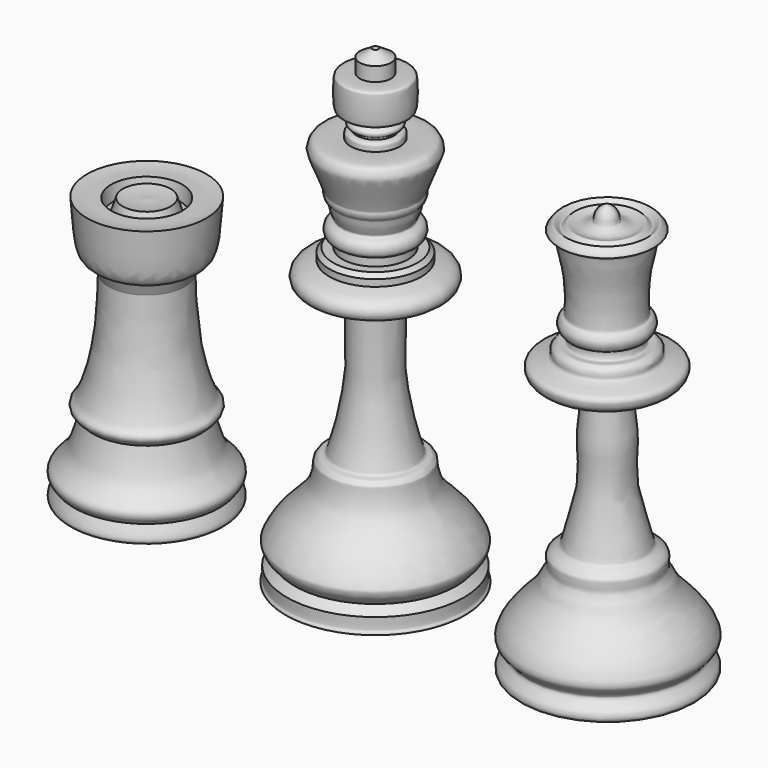
from build123d import *


with BuildPart() as f1:
    # F0 (on Front) → F1 (revolve)
    with BuildSketch(Plane.XZ):
        with BuildLine():
            Line((0, 55.5540435016), (0, 0.2665770007))
            add(Edge.make_bspline(
                [(0, 0.2665770007), (0.2965209904, 0.2574963791), (1.1301286118, 0.2319680837), (4.6987128656, 0.3512958273), (7.7142450165, 0.4243552396), (10.2439865204, 1.354328125), (10.352853608, 1.514737577), (10.2786739454, 1.7260388707), (10.1283499087, 1.8215543834), (10.1594801059, 2.6158783131), (10.1831210777, 3.2191057689)],
                knots=[0, 0, 0, 0, 0.1189755692, 0.3344752797, 0.5504141513, 0.7287636396, 0.7700754913, 0.8201708187, 0.8634336755, 1, 1, 1, 1], degree=3))
            Line((10.1831210777, 3.2191057689), (9.2929117382, 4.0796417743))
            add(Edge.make_bspline(
                [(9.2929117382, 4.0796417743), (9.5895576935, 4.3930683636), (10.1053916315, 4.9380819359), (10.3165303096, 5.6450260493), (10.278743784, 6.1055410358), (9.1351732574, 7.9898221184), (7.6853299882, 9.4004291398), (6.4586896575, 10.6529896216), (5.8799101912, 11.803977507), (5.5671343972, 13.2983974051), (5.6257468289, 13.8999766608), (5.4657622721, 14.1101552214), (5.1587870691, 14.4970665258), (4.6212344294, 14.472540329), (4.3520576529, 14.8469402056), (3.704666123, 17.1594155114), (3.0831448939, 19.8893419903), (2.8198985067, 22.2354257612), (2.6564754974, 22.8257975471), (2.6672475936, 29.1321501292), (2.7722616381, 30.7530663164), (2.9593099857, 31.1679030881), (3.2655997104, 31.2770955741), (4.0539021342, 31.2589434996), (5.6559407843, 31.3732111959), (7.3725889343, 31.5935773196), (7.7765165564, 32.3103338743), (7.6812727191, 33.0688936178), (6.8478901137, 33.7859518872), (5.8556258282, 34.0030503815), (5.3018038161, 34.1242216527)],
                knots=[0, 0, 0, 0, 0.0363856513, 0.0632705536, 0.0846808371, 0.1324812973, 0.1814441473, 0.2242914457, 0.2621742892, 0.3028687515, 0.3273744884, 0.3435401147, 0.3660070084, 0.3887020027, 0.4087661736, 0.4586344698, 0.5173628492, 0.5654049683, 0.5936904721, 0.6761944899, 0.7196185615, 0.7386552768, 0.7559168143, 0.7843947411, 0.8276185415, 0.8703762322, 0.8976932961, 0.9248609512, 0.9580619198, 1, 1, 1, 1], degree=3))
            add(Edge.make_bspline(
                [(5.3018038161, 34.1242216527), (5.3018038161, 34.3813933432), (5.3018038161, 34.6385650337), (5.3018038161, 34.8957367241)],
                knots=[0, 0, 0, 0, 0.7715150714, 0.7715150714, 0.7715150714, 0.7715150714], degree=3))
            add(Edge.make_bspline(
                [(5.3018038161, 34.8957367241), (5.1534355929, 35.0589416921), (5.0050673696, 35.2221466601), (4.8566991463, 35.3853516281)],
                knots=[0, 0, 0, 0, 0.6616954898, 0.6616954898, 0.6616954898, 0.6616954898], degree=3))
            add(Edge.make_bspline(
                [(4.8566991463, 35.3853516281), (4.5006151777, 35.3853516281), (4.144531209, 35.3853516281), (3.7884472404, 35.3853516281)],
                knots=[0, 0, 0, 0, 1.068251906, 1.068251906, 1.068251906, 1.068251906], degree=3))
            add(Edge.make_bspline(
                [(3.7884472404, 35.3853516281), (3.7884472404, 35.6919802725), (3.7884472404, 35.998608917), (3.7884472404, 36.3052375615)],
                knots=[0, 0, 0, 0, 0.9198859334, 0.9198859334, 0.9198859334, 0.9198859334], degree=3))
            add(Edge.make_bspline(
                [(3.7884472404, 36.3052375615), (3.9258230899, 36.3599366834), (4.2126676412, 36.4741499541), (4.6768285043, 36.8225568859), (4.7234977387, 37.6159211078), (4.3162540994, 38.196111393), (3.5220528293, 38.3066680438), (4.2638681007, 39.340601646), (4.2225688595, 40.2215240834), (4.5286910951, 40.4145040873), (4.7255297939, 40.8871736513), (4.7029183708, 41.2069661292), (4.5966168874, 41.3824528629), (6.1760277108, 45.0605846668), (6.210712539, 45.4937372218), (6.0027467013, 46.0994083083), (5.5108669404, 46.6245353009), (3.9068940629, 46.5461880777), (2.815275453, 46.4928671718)],
                knots=[0, 0, 0, 0, 0.0486380286, 0.1015575412, 0.1630826165, 0.222700561, 0.2748074597, 0.3474916978, 0.414683157, 0.455172894, 0.5061582753, 0.5445412405, 0.5763670958, 0.7186926434, 0.7723632918, 0.8253418357, 0.8811325895, 1, 1, 1, 1], degree=3))
            add(Edge.make_bspline(
                [(2.815275453, 46.4928671718), (2.827364077, 46.6727161265), (2.8485862174, 46.9884493149), (2.7175948765, 47.2858671532), (2.3911155866, 47.3665231033), (2.2299809905, 47.3790030525), (2.1545756608, 47.3848432302)],
                knots=[0, 0, 0, 0, 0.3096557019, 0.5436149587, 0.7864278354, 1, 1, 1, 1], degree=3))
            add(Edge.make_bspline(
                [(2.1545756608, 47.3848432302), (2.1388282933, 47.4514151987), (2.1032549676, 47.6018013701), (2.4195505468, 47.7197404124), (2.6295392664, 47.8892420218), (2.6828583388, 48.1970619145), (2.5162833299, 48.4001727421), (2.1527015851, 48.686040776), (2.0352092325, 48.795517759), (1.9869571552, 48.8404780626)],
                knots=[0, 0, 0, 0, 0.1171619703, 0.2646690575, 0.4073513277, 0.5483488953, 0.685661185, 0.870906485, 1, 1, 1, 1], degree=3))
            add(Edge.make_bspline(
                [(1.9869571552, 48.8404780626), (1.9869571552, 48.9992747704), (1.9869571552, 49.1580714782), (1.9869571552, 49.316868186)],
                knots=[0, 0, 0, 0, 0.4763901234, 0.4763901234, 0.4763901234, 0.4763901234], degree=3))
            add(Edge.make_bspline(
                [(1.9869571552, 49.316868186), (2.4780502232, 49.316868186), (2.9691432913, 49.316868186), (3.4602363594, 49.316868186)],
                knots=[0, 0, 0, 0, 1.4732792042, 1.4732792042, 1.4732792042, 1.4732792042], degree=3))
            add(Edge.make_bspline(
                [(3.4602363594, 49.316868186), (3.5169251899, 49.3380301525), (3.6791079631, 49.3985730565), (3.8422045672, 50.011902793), (3.8224109795, 52.6448380388), (3.6757850098, 52.8554081808), (3.4226102884, 53.0361050703), (2.485262145, 53.0382204601), (1.8016945105, 53.0397631228)],
                knots=[0, 0, 0, 0, 0.0838855816, 0.239990773, 0.5596527807, 0.6522304255, 0.7463866259, 1, 1, 1, 1], degree=3))
            add(Edge.make_bspline(
                [(1.8016945105, 54.6541959047), (1.8016945105, 54.1160516441), (1.8016945105, 53.5779073834), (1.8016945105, 53.0397631228)],
                knots=[0, 0, 0, 0, 1.6144327819, 1.6144327819, 1.6144327819, 1.6144327819], degree=3))
            add(Edge.make_bspline(
                [(1.8016945105, 54.6541959047), (1.3253049207, 54.9541451037), (0.8489153309, 55.2540943027), (0.3725257411, 55.5540435016)],
                knots=[0, 0, 0, 0, 1.688860287, 1.688860287, 1.688860287, 1.688860287], degree=3))
            add(Edge.make_bspline(
                [(0.3725257411, 55.5540435016), (0.2483504941, 55.5540435016), (0.124175247, 55.5540435016), (0, 55.5540435016)],
                knots=[0, 0, 0, 0, 0.3725257411, 0.3725257411, 0.3725257411, 0.3725257411], degree=3))
        make_face()
    revolve(axis=Axis((0, 0, 27.7770217508), (0, 0, -1)))


with BuildPart() as f2:
    # F0 (on Front) → F2 (revolve)
    with BuildSketch(Plane.XZ):
        with BuildLine():
            Line((26.6030039638, 48.4205707908), (26.7495550215, 0))
            add(Edge.make_bspline(
                [(26.7495550215, 0), (29.6058569101, 0.3093089335), (34.0177311159, 0.7870707943), (36.9251652119, 0.9124717088), (36.9102962949, 2.1942234822), (35.4091085367, 3.2659202874), (36.993322132, 4.294096527), (36.8333586891, 5.6203294481), (35.474374967, 7.6104932925), (33.8319697277, 9.0762846439), (33.1355282017, 10.1401937045), (32.7433346658, 11.0534942099), (31.9820258752, 11.8313566086), (32.6115568494, 13.2556047814), (31.1732777363, 13.8918222664), (30.9143020597, 14.1308381183), (30.5007662143, 16.0326053622), (28.9098007919, 20.6456092503), (29.8166628121, 25.3296261469), (28.3410535508, 30.5963695361), (31.6055507098, 30.2985017255), (33.4304306235, 30.7753509293), (34.0760385675, 31.5485111458), (34.1221136089, 32.4068870744), (33.3350755938, 32.7572973593), (31.864345883, 32.9442619618), (31.6965619448, 33.4806495439), (31.8418381038, 33.9056309868), (31.4152852495, 34.2605311994), (31.0528479115, 34.5899155277), (30.1784878489, 34.1316377724), (30.1009149544, 35.590440773), (30.676454183, 35.3736795603), (31.1583830432, 36.1262690732), (31.1589415913, 36.7480271235), (30.7499378365, 37.3260399149), (30.3804696853, 37.2791975168), (30.4057841247, 39.9238005445), (30.5840552008, 42.0509946328), (31.2170531265, 44.4415399552), (31.1714378069, 45.4264362081), (32.0506729469, 45.6567515927), (32.1360063175, 45.9151116136), (31.810758745, 46.3245532644), (31.3518596726, 46.8305904964), (30.7344315087, 45.7522407352), (30.3172611785, 46.7747779292), (29.6303614793, 46.1692964374), (28.833844355, 46.2368600854), (28.1801172213, 46.5822678682), (27.7405393055, 46.7446681882), (27.7979263194, 47.4182771472), (27.3347430927, 48.1323687275), (26.8450570022, 48.325236016), (26.6030039638, 48.4205707908)],
                knots=[0, 0, 0, 0, 0.0497814616, 0.0768929738, 0.0934163977, 0.1145695258, 0.1352341106, 0.1545293153, 0.1822967403, 0.2091256351, 0.2289358114, 0.2465709453, 0.2642060879, 0.2841340862, 0.3043103811, 0.3145721644, 0.3378548602, 0.3772204728, 0.41803772, 0.4548081592, 0.4820090603, 0.5068605727, 0.5238845384, 0.5387183814, 0.5546380581, 0.576031951, 0.5878886566, 0.5990357489, 0.611664607, 0.6237946807, 0.6383385286, 0.6557007274, 0.666668786, 0.682372012, 0.6967735516, 0.7108533258, 0.7190501134, 0.7460081764, 0.7744791404, 0.8021159142, 0.8186654302, 0.834068705, 0.8419459533, 0.854837028, 0.8674890816, 0.8831923491, 0.8972002102, 0.911986124, 0.9279076293, 0.9433200116, 0.9544839839, 0.9681796599, 0.9842711276, 1, 1, 1, 1], degree=3))
        make_face()
    revolve(axis=Axis((26.6762794927, 0, 24.2102853954), (0.0030266142, 0, -0.9999954198)))


with BuildPart() as f3:
    # F0 (on Front) → F3 (revolve)
    with BuildSketch(Plane.XZ):
        with BuildLine():
            Line((-26.3065490872, 31.7175462842), (-26.3065490872, 0))
            add(Edge.make_bspline(
                [(-26.3065490872, 0), (-23.9158916526, 0.2131140664), (-20.2312876919, 0.5415764056), (-18.4032862646, 1.0039706404), (-17.3286513127, 1.350545497), (-17.4446187226, 2.146791445), (-17.7596750768, 2.7831087952), (-17.9409980774, 3.1493257266)],
                knots=[0, 0, 0, 0, 0.3751620903, 0.5782190722, 0.7196421695, 0.8386468885, 1, 1, 1, 1], degree=3))
            add(Edge.make_bspline(
                [(-17.9409980774, 3.1493257266), (-17.7592127491, 3.3614261379), (-17.4048600036, 3.7748718422), (-17.3209140125, 4.6563998849), (-18.6061184253, 5.6139859945), (-19.3910083139, 7.0230412547), (-19.8798381213, 8.7465651516), (-20.0549559757, 9.560541435), (-20.1338324696, 9.9271722138)],
                knots=[0, 0, 0, 0, 0.1346268987, 0.2624271806, 0.4443885324, 0.6375345479, 0.8367384975, 1, 1, 1, 1], degree=3))
            add(Edge.make_bspline(
                [(-20.1338324696, 9.9271722138), (-19.8198605547, 10.1920609), (-19.2925392521, 10.6369460646), (-19.3913197795, 11.2965111095), (-20.0472380741, 11.6848044694), (-21.3161843037, 15.8987885482), (-21.6598918162, 19.3114766216), (-21.8870691752, 22.0225526005), (-21.9098890009, 23.5250707828), (-21.9207722694, 24.2416542023)],
                knots=[0, 0, 0, 0, 0.1079603331, 0.1813212609, 0.2642479635, 0.4767828603, 0.6780348245, 0.8464478439, 1, 1, 1, 1], degree=3))
            add(Edge.make_bspline(
                [(-21.9207722694, 24.2416542023), (-21.6968754927, 24.7948095202), (-21.4729787161, 25.3479648381), (-21.2490819395, 25.901120156)],
                knots=[0, 0, 0, 0, 1.7902500247, 1.7902500247, 1.7902500247, 1.7902500247], degree=3))
            add(Edge.make_bspline(
                [(-21.2490819395, 25.901120156), (-21.1516351854, 25.8277145599), (-20.9562127966, 25.6805049674), (-20.6276255916, 25.9336528793), (-19.7671094531, 26.5501167494), (-19.5754530433, 29.7129183154), (-19.4370485842, 31.9969318807)],
                knots=[0, 0, 0, 0, 0.1296969073, 0.2600977292, 0.465680414, 1, 1, 1, 1], degree=3))
            add(Edge.make_bspline(
                [(-19.4370485842, 31.9969318807), (-19.6666999448, 31.9341703059), (-20.1434385014, 31.8038821052), (-20.9803453529, 31.8349040899), (-21.7769489577, 31.8402940728), (-22.2169347107, 31.8432711065)],
                knots=[0, 0, 0, 0, 0.2938265231, 0.6099612566, 1, 1, 1, 1], degree=3))
            add(Edge.make_bspline(
                [(-22.2169347107, 31.8432711065), (-22.2914374123, 31.2891559054), (-22.3659401139, 30.7350407044), (-22.4404428154, 30.1809255034)],
                knots=[0, 0, 0, 0, 1.6773040205, 1.6773040205, 1.6773040205, 1.6773040205], degree=3))
            add(Edge.make_bspline(
                [(-22.4404428154, 30.1809255034), (-22.6313564926, 30.1809255034), (-22.8222701699, 30.1809255034), (-23.0131838471, 30.1809255034)],
                knots=[0, 0, 0, 0, 0.5727410316, 0.5727410316, 0.5727410316, 0.5727410316], degree=3))
            add(Edge.make_bspline(
                [(-23.0131838471, 30.1809255034), (-23.1947849194, 30.7350407044), (-23.3763859918, 31.2891559054), (-23.5579870641, 31.8432711065)],
                knots=[0, 0, 0, 0, 1.7493437197, 1.7493437197, 1.7493437197, 1.7493437197], degree=3))
            add(Edge.make_bspline(
                [(-23.5579870641, 31.8432711065), (-23.7510971643, 31.7979488845), (-24.206003287, 31.69118411), (-25.4146632736, 31.6163031987), (-26.0235599499, 31.6854225605), (-26.3065490872, 31.7175462842)],
                knots=[0, 0, 0, 0, 0.283058625, 0.6667963069, 1, 1, 1, 1], degree=3))
        make_face()
    revolve(axis=Axis((-26.3065490872, 0, 19.7763459291), (0, 0, -1)))


solid = Compound([f1.part, f2.part, f3.part])
